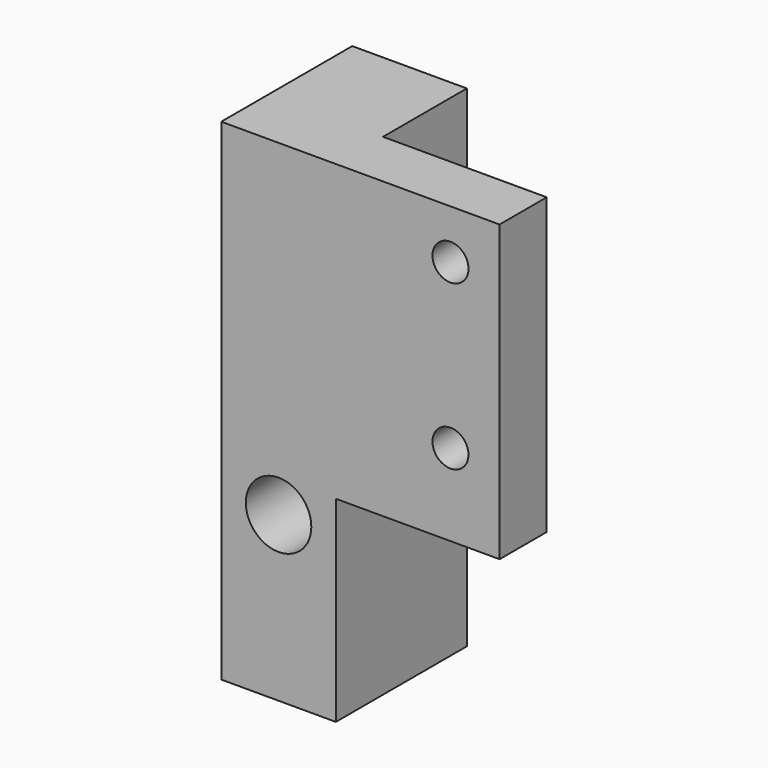
from build123d import *

# Parameters (mm, degrees)
F0_W     = 17
F0_H     = 30
F1_DEPTH = 10
F2_W     = 10
F2_H     = 30
F3_DEPTH = 6.4
F4_R     = 2
F5_DEPTH = 25
F6_R     = 1.1
F7_DEPTH = 25
F8_W     = 10
F8_H     = 12
F9_DEPTH = 25


with BuildPart() as f1:
    # F0 (on Front) → F1 (new body)
    with BuildSketch(Plane.XZ):
        with Locations((-8.5, -15)):
            Rectangle(F0_W, F0_H)
    extrude(amount=F1_DEPTH)

    # F2 (on face) → F3 (cut)
    with BuildSketch(Plane(origin=(0, 0, 0), x_dir=(-1, 0, 0), z_dir=(0, 1, 0))):
        with Locations((5, -15)):
            Rectangle(F2_W, F2_H)
    extrude(amount=-F3_DEPTH, mode=Mode.SUBTRACT)

    # F4 (on face) → F5 (cut)
    with BuildSketch(Plane.XZ.offset(10)):
        with Locations((-13.5, -20)):
            Circle(F4_R)
    extrude(amount=-F5_DEPTH, mode=Mode.SUBTRACT)

    # F6 (on face) → F7 (cut)
    with BuildSketch(Plane.XZ.offset(10)):
        with Locations((-3, -3)):
            Circle(F6_R)
        with Locations((-3, -13)):
            Circle(F6_R)
    extrude(amount=-F7_DEPTH, mode=Mode.SUBTRACT)

    # F8 (on face) → F9 (cut)
    with BuildSketch(Plane(origin=(0, -6.4, 0), x_dir=(-1, 0, 0), z_dir=(0, 1, 0))):
        with Locations((5, -24)):
            Rectangle(F8_W, F8_H)
    extrude(amount=-F9_DEPTH, mode=Mode.SUBTRACT)


solid = f1.part
